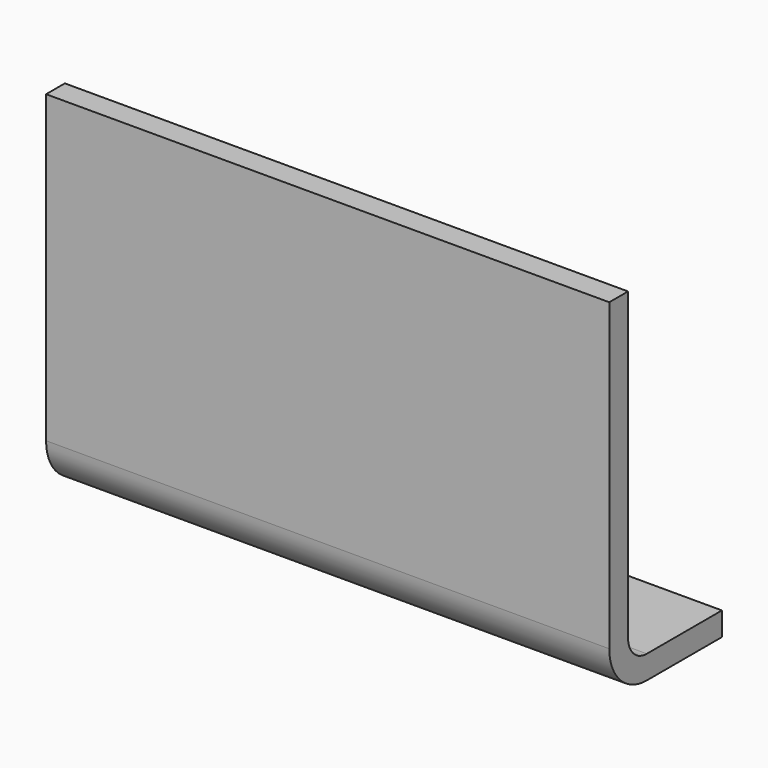
from build123d import *

# Parameters (mm, degrees)
F1_DEPTH = 76.2
F2_R     = 6.35
F3_R     = 12.7


with BuildPart() as f1:
    # F0 (on Right) → F1 (new body, symmetric)
    with BuildSketch(Plane.YZ):
        Polygon((-6.35, 88.9), (-6.35, -6.35), (31.75, -6.35), (31.75, 0), (0, 0), (0, 88.9), align=None)
    extrude(amount=F1_DEPTH, both=True)

    # F2
    f2_edges = [f1.edges().sort_by_distance(p)[0] for p in [
        (0, 0, 0),
    ]]
    fillet(f2_edges, radius=F2_R)

    # F3
    f3_edges = [f1.edges().sort_by_distance(p)[0] for p in [
        (0, -6.35, -6.35),
    ]]
    fillet(f3_edges, radius=F3_R)


solid = f1.part
